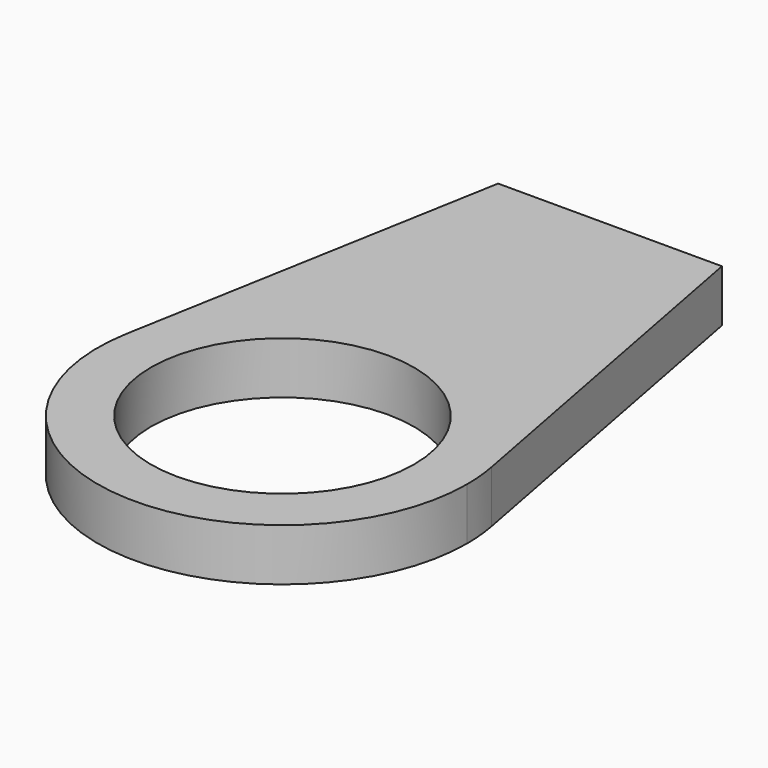
from build123d import *

# Parameters (mm, degrees)
F0_R     = 17.649408
F1_DEPTH = 7


with BuildPart() as f1:
    # F0 (on Top) → F1 (new body)
    with BuildSketch(Plane.XY):
        with BuildLine():
            ThreePointArc((-24.411004, 4.365542), (-2.191343, -24.701277), (24.798288, 0))
            ThreePointArc((24.798288, 0), (24.689215, 2.323305), (24.362955, 4.626173))
            ThreePointArc((24.362955, 4.626173), (-0.132512, 24.797933), (-24.411004, 4.365542))
        make_face()
        Circle(F0_R, mode=Mode.SUBTRACT)
        with BuildLine():
            ThreePointArc((-24.411004, 4.365542), (-0.132512, 24.797933), (24.362955, 4.626173))
            Line((24.362955, 4.626173), (14.739305, 55.307489))
            Line((14.739305, 55.307489), (-15.300802, 55.307489))
            Line((-15.300802, 55.307489), (-24.411004, 4.365542))
        make_face()
    extrude(amount=F1_DEPTH)


solid = f1.part
